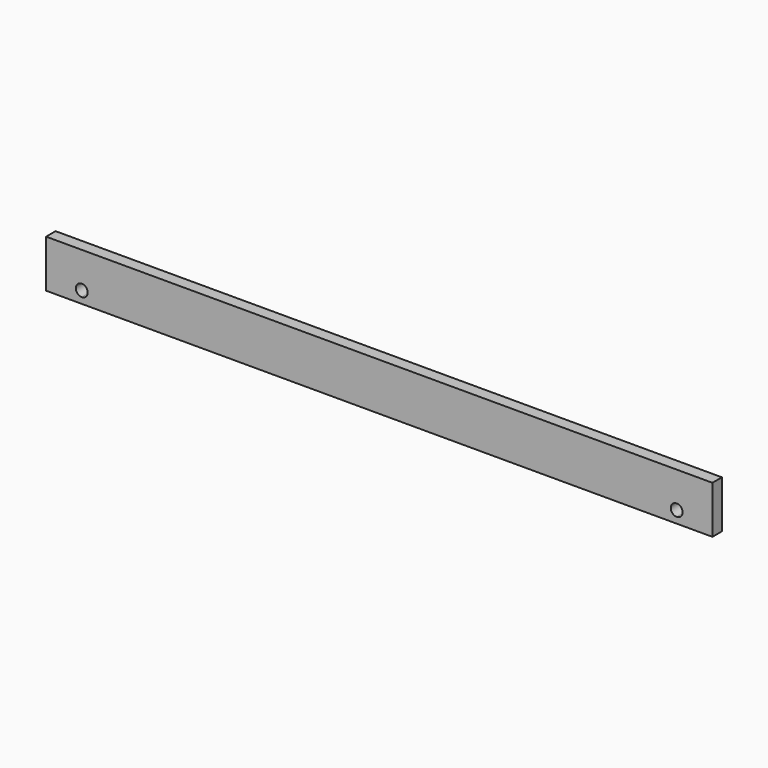
from build123d import *

# Parameters (mm, degrees)
F0_W     = 1422.4
F0_H     = 101.6
F1_DEPTH = 25.4
F3_DEPTH = 25.401


with BuildPart() as f1:
    # F0 (on Front) → F1 (new body)
    with BuildSketch(Plane.XZ):
        with Locations((711.2, 50.8)):
            Rectangle(F0_W, F0_H)
    extrude(amount=F1_DEPTH)

    # F2 (on face) → F3 (cut, through all)
    with BuildSketch(Plane.XZ.offset(25.4)):
        with BuildLine():
            ThreePointArc((88.9, 25.4), (85.180256, 34.380256), (76.2, 38.1))
            Line((76.2, 38.1), (76.2, 12.7))
            ThreePointArc((76.2, 12.7), (85.180256, 16.419744), (88.9, 25.4))
        make_face()
        with BuildLine():
            Line((76.2, 12.7), (76.2, 38.1))
            ThreePointArc((76.2, 38.1), (63.5, 25.4), (76.2, 12.7))
        make_face()
        with BuildLine():
            ThreePointArc((1358.9, 25.4), (1355.180256, 34.380256), (1346.2, 38.1))
            Line((1346.2, 38.1), (1346.2, 12.7))
            ThreePointArc((1346.2, 12.7), (1355.180256, 16.419744), (1358.9, 25.4))
        make_face()
        with BuildLine():
            Line((1346.2, 12.7), (1346.2, 38.1))
            ThreePointArc((1346.2, 38.1), (1333.5, 25.4), (1346.2, 12.7))
        make_face()
    extrude(amount=-F3_DEPTH, mode=Mode.SUBTRACT)


solid = f1.part
